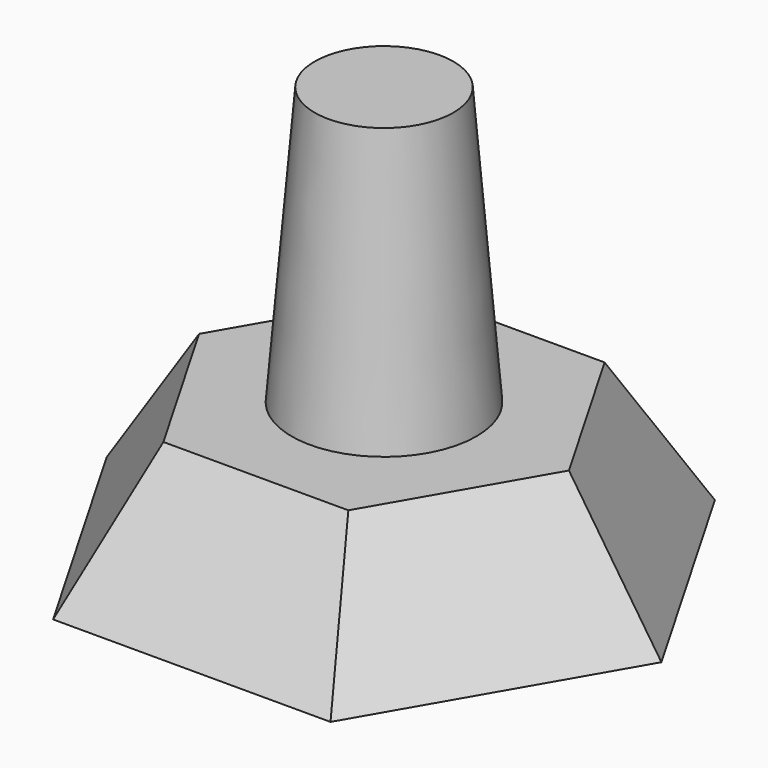
from build123d import *

# Parameters (mm, degrees)
F5_R = 20
F4_R = 15


with BuildPart() as f6:
    # F0 (on Top) → F6 section 0
    with BuildSketch(Plane.XY):
        Polygon((60, 0), (30, 51.961524), (-30, 51.961524), (-60, 0), (-30, -51.961524), (30, -51.961524), align=None)
    # F2 (on offset) → F6 section 1
    with BuildSketch(Plane.XY.offset(30)):
        Polygon((40, 0), (20, 34.641016), (-20, 34.641016), (-40, 0), (-20, -34.641016), (20, -34.641016), align=None)
    loft()

    # F5 (on face) → F7 section 0
    with BuildSketch(Plane.XY.offset(30)):
        Circle(F5_R)
    # F4 (on offset) → F7 section 1
    with BuildSketch(Plane.XY.offset(90)):
        Circle(F4_R)
    loft()


solid = f6.part
